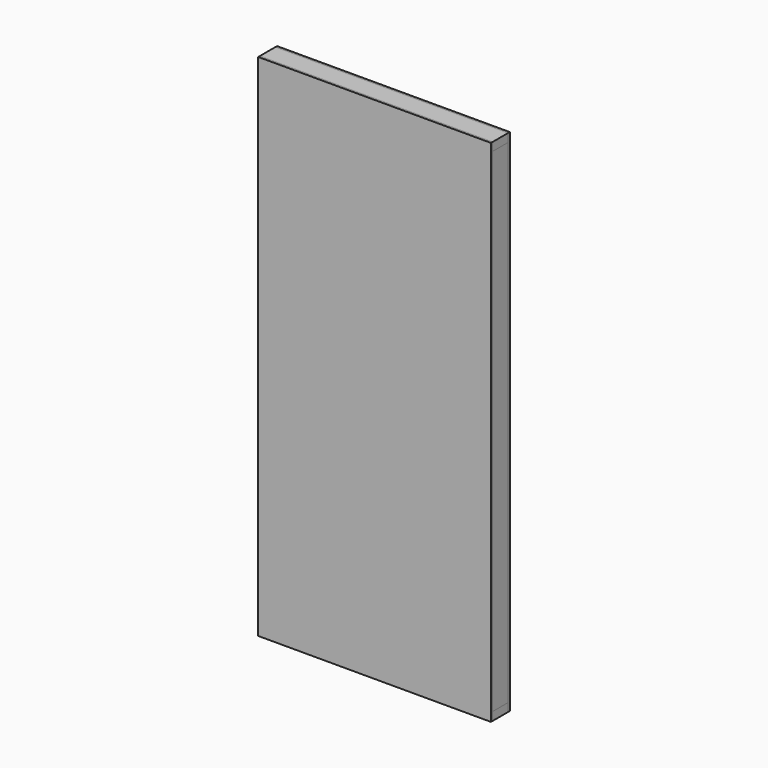
from build123d import *

# Parameters (mm, degrees)
F0_W     = 1066.8
F0_H     = 88.9
F1_DEPTH = 38.1
F2_W     = 38.1
F2_H     = 88.9
F3_DEPTH = 2260.6
F4_W     = 38.1
F4_H     = 88.9
F4_W_2   = 1028.7
F5_DEPTH = 38.1
F6_W     = 1066.8
F6_H     = 2336.8
F7_DEPTH = 9.525


with BuildPart() as f1:
    # F0 (on Top) → F1 (new body)
    with BuildSketch(Plane.XY):
        with Locations((482.5330347955, 20.3500167251)):
            Rectangle(F0_W, F0_H)
    extrude(amount=F1_DEPTH)


with BuildPart() as f3:
    # F2 (on face) → F3 (new body)
    with BuildSketch(Plane.XY.offset(38.1)):
        with Locations((-31.8169652045, 20.3500167251)):
            Rectangle(F2_W, F2_H)
    extrude(amount=F3_DEPTH)


with BuildPart() as f3b:
    # F2 (on face) → F3, piece 2 (new body)
    with BuildSketch(Plane.XY.offset(38.1)):
        with Locations((996.8830347955, 20.3500167251)):
            Rectangle(F2_W, F2_H)
    extrude(amount=F3_DEPTH)


with BuildPart() as f5:
    # F4 (on face) → F5 (new body)
    with BuildSketch(Plane.XY.offset(2298.7)):
        with Locations((-31.8169652045, 20.3500167251)):
            Rectangle(F4_W, F4_H)
        with Locations((501.5830347955, 20.3500167251)):
            Rectangle(F4_W_2, F4_H)
    extrude(amount=F5_DEPTH)


with BuildPart() as f7:
    # F6 (on face) → F7 (new body)
    with BuildSketch(Plane.XZ.offset(24.0999832749)):
        with Locations((482.5330347955, 1168.4)):
            Rectangle(F6_W, F6_H)
    extrude(amount=F7_DEPTH)


with BuildPart() as f12_1:
    # F12: instance of F7
    add(f7.part.mirror(Plane(origin=(-50.8669652045, 20.3500167251, 2336.8), x_dir=(0, 0, -1), z_dir=(0, 1, 0))))


solid = Compound([f1.part, f3.part, f3b.part, f5.part, f7.part, f12_1.part])
